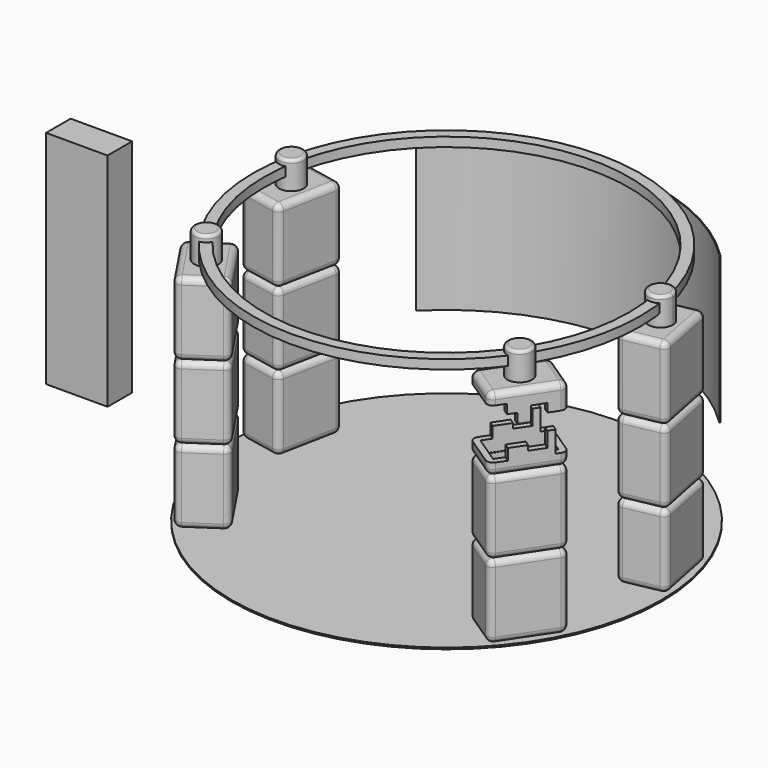
from build123d import *

# Parameters (mm, degrees)
F0_R          = 1778
F1_DEPTH      = 12.7
F4_W          = 508
F4_H          = 254
F5_DEPTH      = 1828.8
F6_DEPTH      = 1828.8
F7_W          = 1642.7085697651
F7_H          = 2.54
F7_W_2        = 2040.2914302349
F8_DEPTH      = 1447.8
F8_DEPTH_BACK = 1905
F9_R          = 50.8
F9_2_R        = 50.8
F9_3_R        = 50.8
F9_4_R        = 50.8
F10_R         = 50.8
F10_2_R       = 50.8
F10_3_R       = 50.8
F10_4_R       = 50.8
F13_DEPTH     = 228.6
F15_START     = 101.6
F14_R         = 1600.2
F14_R_2       = 1511.3
F15_DEPTH     = 76.2
F16_R         = 25.4
F16_2_R       = 25.4
F16_3_R       = 25.4
F16_4_R       = 25.4
F18_DEPTH     = 459.74
F20_START     = -50.8
F20_DEPTH     = 2217.42
F22_DEPTH     = 1219.2


with BuildPart() as f1:
    # F0 (on Top) → F1 (new body)
    with BuildSketch(Plane.XY):
        Circle(F0_R)
    extrude(amount=-F1_DEPTH)


with BuildPart() as f5:
    # F4 (on Top) → F5 (new body)
    with BuildSketch(Plane.XY):
        with Locations((-2954.8909664154, 0)):
            Rectangle(F4_W, F4_H)
    extrude(amount=F5_DEPTH)


with BuildPart() as f6:
    # F3 (on face) → F6 (new body)
    with BuildSketch(Plane.XY):
        Polygon((-1763.4990509434, 72.9011938656), (-1397, 0), (-1290.6597069183, 534.608755014), (-1657.1587578617, 607.5099488796), align=None)
    extrude(amount=F6_DEPTH)


with BuildPart() as f6b:
    # F3 (on face) → F6, piece 2 (new body)
    with BuildSketch(Plane.XY):
        Polygon((1290.6597069183, 534.608755014), (1397, 0), (1763.4990509434, 72.9011938655), (1657.1587578617, 607.5099488796), align=None)
    extrude(amount=F6_DEPTH)


with BuildPart() as f6c:
    # F3 (on face) → F6, piece 3 (new body)
    with BuildSketch(Plane.XY):
        Polygon((-1053.863047553, -889), (-1290.6597069183, -534.608755014), (-1601.3625996777, -742.2137906956), (-1503.2831902794, -889), align=None)
        Polygon((-1298.531066077, -1195.4332089992), (-987.8281733176, -987.8281733176), (-1053.863047553, -889), (-1503.2831902794, -889), align=None)
    extrude(amount=F6_DEPTH)


with BuildPart() as f6d:
    # F3 (on face) → F6, piece 4 (new body)
    with BuildSketch(Plane.XY):
        Polygon((1601.3625996777, -742.2137906956), (1290.6597069183, -534.608755014), (1053.863047553, -889), (1503.2831902794, -889), align=None)
        Polygon((1053.863047553, -889), (987.8281733176, -987.8281733176), (1298.531066077, -1195.4332089992), (1503.2831902794, -889), align=None)
    extrude(amount=F6_DEPTH)


with BuildPart() as f8_tool:
    # F7 (on Front) → F8 (new body, two sides)
    with BuildSketch(Plane.XZ) as f8_sk:
        with Locations((-1028.3880084753, 610.87)):
            Rectangle(F7_W, F7_H)
        with Locations((-1028.3880084753, 1220.47)):
            Rectangle(F7_W, F7_H)
        with Locations((813.1119915247, 1220.47)):
            Rectangle(F7_W_2, F7_H)
        with Locations((813.1119915247, 610.87)):
            Rectangle(F7_W_2, F7_H)
    extrude(amount=-F8_DEPTH)
    extrude(f8_sk.sketch, amount=F8_DEPTH_BACK)


with BuildPart() as f6_1:
    add(f6.part)

    # F8: cut by f8_tool
    add(f8_tool.part, mode=Mode.SUBTRACT)

    # F9#3
    f9_3_edges = [f6_1.edges().sort_by_distance(p)[0] for p in [
        (-1473.909232, 571.059352, 1828.8),
        (-1710.328904, 340.205571, 1828.8),
        (-1580.249525, 36.450597, 1828.8),
        (-1343.829853, 267.304378, 1828.8),
        (-1473.909232, 571.059352, 1221.74),
        (-1657.158758, 607.509949, 1525.27),
        (-1290.659707, 534.608755, 1525.27),
        (-1473.909232, 571.059352, 612.14),
        (-1657.158758, 607.509949, 915.67),
        (-1473.909232, 571.059352, 1219.2),
        (-1290.659707, 534.608755, 915.67),
        (-1710.328904, 340.205571, 612.14),
        (-1763.499051, 72.901194, 915.67),
        (-1710.328904, 340.205571, 1219.2),
        (-1710.328904, 340.205571, 1221.74),
        (-1763.499051, 72.901194, 1525.27),
        (-1580.249525, 36.450597, 1221.74),
        (-1397, 0, 1525.27),
        (-1580.249525, 36.450597, 612.14),
        (-1397, 0, 915.67),
        (-1580.249525, 36.450597, 1219.2),
        (-1343.829853, 267.304378, 612.14),
        (-1343.829853, 267.304378, 1219.2),
        (-1343.829853, 267.304378, 1221.74),
    ]]
    fillet(f9_3_edges, radius=F9_3_R)

    # F10
    f10_edges = [f6_1.edges().sort_by_distance(p)[0] for p in [
        (-1710.328904, 340.205571, 0),
        (-1763.499051, 72.901194, 304.8),
        (-1710.328904, 340.205571, 609.6),
        (-1657.158758, 607.509949, 304.8),
        (-1473.909232, 571.059352, 0),
        (-1473.909232, 571.059352, 609.6),
        (-1290.659707, 534.608755, 304.8),
        (-1580.249525, 36.450597, 0),
        (-1397, 0, 304.8),
        (-1580.249525, 36.450597, 609.6),
        (-1343.829853, 267.304378, 0),
        (-1343.829853, 267.304378, 609.6),
    ]]
    fillet(f10_edges, radius=F10_R)


with BuildPart() as f6b_1:
    add(f6b.part)

    # F8: cut by f8_tool
    add(f8_tool.part, mode=Mode.SUBTRACT)

    # F9
    f9_edges = [f6b_1.edges().sort_by_distance(p)[0] for p in [
        (1710.328904, 340.205571, 1828.8),
        (1473.909232, 571.059352, 1828.8),
        (1343.829853, 267.304378, 1828.8),
        (1580.249525, 36.450597, 1828.8),
        (1473.909232, 571.059352, 1221.74),
        (1290.659707, 534.608755, 1525.27),
        (1657.158758, 607.509949, 1525.27),
        (1343.829853, 267.304378, 1221.74),
        (1397, 0, 1525.27),
        (1580.249525, 36.450597, 1221.74),
        (1763.499051, 72.901194, 1525.27),
        (1710.328904, 340.205571, 1221.74),
        (1710.328904, 340.205571, 612.14),
        (1657.158758, 607.509949, 915.67),
        (1710.328904, 340.205571, 1219.2),
        (1763.499051, 72.901194, 915.67),
        (1343.829853, 267.304378, 612.14),
        (1397, 0, 915.67),
        (1343.829853, 267.304378, 1219.2),
        (1290.659707, 534.608755, 915.67),
        (1580.249525, 36.450597, 612.14),
        (1580.249525, 36.450597, 1219.2),
        (1473.909232, 571.059352, 612.14),
        (1473.909232, 571.059352, 1219.2),
    ]]
    fillet(f9_edges, radius=F9_R)

    # F10#4
    f10_4_edges = [f6b_1.edges().sort_by_distance(p)[0] for p in [
        (1343.829853, 267.304378, 0),
        (1397, 0, 304.8),
        (1343.829853, 267.304378, 609.6),
        (1290.659707, 534.608755, 304.8),
        (1473.909232, 571.059352, 0),
        (1473.909232, 571.059352, 609.6),
        (1657.158758, 607.509949, 304.8),
        (1580.249525, 36.450597, 0),
        (1763.499051, 72.901194, 304.8),
        (1580.249525, 36.450597, 609.6),
        (1710.328904, 340.205571, 0),
        (1710.328904, 340.205571, 609.6),
    ]]
    fillet(f10_4_edges, radius=F10_4_R)


with BuildPart() as f6c_1:
    add(f6c.part)

    # F8: cut by f8_tool
    add(f8_tool.part, mode=Mode.SUBTRACT)

    # F9#4
    f9_4_edges = [f6c_1.edges().sort_by_distance(p)[0] for p in [
        (-1446.011153, -638.411273, 612.14),
        (-1601.3626, -742.213791, 915.67),
        (-1446.011153, -638.411273, 1219.2),
        (-1290.659707, -534.608755, 915.67),
        (-1449.946833, -968.8235, 1221.74),
        (-1298.531066, -1195.433209, 1525.27),
        (-1449.946833, -968.8235, 1828.8),
        (-1601.3626, -742.213791, 1525.27),
        (-1449.946833, -968.8235, 612.14),
        (-1298.531066, -1195.433209, 915.67),
        (-1449.946833, -968.8235, 1219.2),
        (-1446.011153, -638.411273, 1828.8),
        (-1143.17962, -1091.630691, 1828.8),
        (-1139.24394, -761.218464, 1828.8),
        (-1446.011153, -638.411273, 1221.74),
        (-1290.659707, -534.608755, 1525.27),
        (-1143.17962, -1091.630691, 612.14),
        (-987.828173, -987.828173, 915.67),
        (-1143.17962, -1091.630691, 1219.2),
        (-1143.17962, -1091.630691, 1221.74),
        (-987.828173, -987.828173, 1525.27),
        (-1139.24394, -761.218464, 612.14),
        (-1139.24394, -761.218464, 1219.2),
        (-1139.24394, -761.218464, 1221.74),
    ]]
    fillet(f9_4_edges, radius=F9_4_R)

    # F10#2
    f10_2_edges = [f6c_1.edges().sort_by_distance(p)[0] for p in [
        (-1143.17962, -1091.630691, 0),
        (-987.828173, -987.828173, 304.8),
        (-1143.17962, -1091.630691, 609.6),
        (-1298.531066, -1195.433209, 304.8),
        (-1139.24394, -761.218464, 0),
        (-1290.659707, -534.608755, 304.8),
        (-1139.24394, -761.218464, 609.6),
        (-1449.946833, -968.8235, 0),
        (-1449.946833, -968.8235, 609.6),
        (-1601.3626, -742.213791, 304.8),
        (-1446.011153, -638.411273, 0),
        (-1446.011153, -638.411273, 609.6),
    ]]
    fillet(f10_2_edges, radius=F10_2_R)


with BuildPart() as f6d_1:
    add(f6d.part)

    # F8: cut by f8_tool
    add(f8_tool.part, mode=Mode.SUBTRACT)

    # F9#2
    f9_2_edges = [f6d_1.edges().sort_by_distance(p)[0] for p in [
        (1449.946833, -968.8235, 612.14),
        (1601.3626, -742.213791, 915.67),
        (1449.946833, -968.8235, 1219.2),
        (1298.531066, -1195.433209, 915.67),
        (1449.946833, -968.8235, 1221.74),
        (1601.3626, -742.213791, 1525.27),
        (1449.946833, -968.8235, 1828.8),
        (1298.531066, -1195.433209, 1525.27),
        (1139.24394, -761.218464, 1828.8),
        (1143.17962, -1091.630691, 1828.8),
        (1446.011153, -638.411273, 1828.8),
        (1446.011153, -638.411273, 1221.74),
        (1290.659707, -534.608755, 1525.27),
        (1290.659707, -534.608755, 915.67),
        (1139.24394, -761.218464, 1221.74),
        (987.828173, -987.828173, 1525.27),
        (1139.24394, -761.218464, 612.14),
        (987.828173, -987.828173, 915.67),
        (1139.24394, -761.218464, 1219.2),
        (1143.17962, -1091.630691, 1221.74),
        (1143.17962, -1091.630691, 612.14),
        (1143.17962, -1091.630691, 1219.2),
        (1446.011153, -638.411273, 612.14),
        (1446.011153, -638.411273, 1219.2),
    ]]
    fillet(f9_2_edges, radius=F9_2_R)

    # F10#3
    f10_3_edges = [f6d_1.edges().sort_by_distance(p)[0] for p in [
        (1139.24394, -761.218464, 0),
        (987.828173, -987.828173, 304.8),
        (1139.24394, -761.218464, 609.6),
        (1290.659707, -534.608755, 304.8),
        (1143.17962, -1091.630691, 0),
        (1298.531066, -1195.433209, 304.8),
        (1143.17962, -1091.630691, 609.6),
        (1449.946833, -968.8235, 0),
        (1601.3626, -742.213791, 304.8),
        (1449.946833, -968.8235, 609.6),
        (1446.011153, -638.411273, 0),
        (1446.011153, -638.411273, 609.6),
    ]]
    fillet(f10_3_edges, radius=F10_3_R)

    # F17 (on face) → F18 (cut)
    with BuildSketch(Plane(origin=(1449.9468328774, -968.8234998474, 0), x_dir=(0.555570233, 0.8314696123, 0), z_dir=(0.8314696123, -0.555570233, 0))):
        Polygon((-142.8503990173, 1736.963391304), (-370.8000481129, 1736.963391304), (-305.6716918945, 1321.7694759369), (-185.1840466261, 1321.7694759369), (-153.3529162407, 1321.7694759369), (-137.7647668123, 1321.7694759369), (-137.7647668123, 1413.7675762177), (0, 1413.7675762177), (0, 1372.7443218231), (130.5598020554, 1372.7443218231), (130.5598020554, 1497.6162910461), (186.0482692719, 1497.6162910461), (186.0482692719, 1439.0007257462), (186.0482692719, 1321.7694759369), (322.8180110455, 1321.7694759369), (322.8180110455, 1629.5014619827), (130.6892335415, 1629.5014619827), (130.6892335415, 1699.5146274567), (19.9705809355, 1699.5146274567), (19.9705809355, 1579.0269374847), (-72.8373676538, 1579.0269374847), (-72.8373676538, 1660.4374647141), (-142.8503990173, 1660.4374647141), align=None)
    extrude(amount=-F18_DEPTH, mode=Mode.SUBTRACT)


with BuildPart() as f13:
    # F12 (on offset) → F13 (new body)
    with BuildSketch(Plane.XY.offset(1828.8)):
        with BuildLine():
            ThreePointArc((-1424.2361308747, 303.6151580822), (-1446.2541434046, 366.7758046139), (-1502.7650141484, 402.5610199107))
            ThreePointArc((-1502.7650141484, 402.5610199107), (-1525.8361308747, 303.6151580821), (-1542.3997249104, 203.3744111146))
            ThreePointArc((-1542.3997249104, 203.3744111146), (-1460.1105694622, 226.1379964343), (-1424.2361308747, 303.6151580822))
        make_face()
        with BuildLine():
            ThreePointArc((-1542.3997249104, 203.3744111146), (-1525.8361308747, 303.6151580821), (-1502.7650141484, 402.5610199107))
            ThreePointArc((-1502.7650141484, 402.5610199107), (-1625.4825720747, 323.4430867732), (-1542.3997249104, 203.3744111146))
        make_face()
    extrude(amount=F13_DEPTH)

    # F16#4
    f16_4_edges = [f13.edges().sort_by_distance(p)[0] for p in [
        (-1627.436131, 303.615158, 2057.4),
    ]]
    fillet(f16_4_edges, radius=F16_4_R)


with BuildPart() as f13b:
    # F12 (on offset) → F13, piece 2 (new body)
    with BuildSketch(Plane.XY.offset(1828.8)):
        with BuildLine():
            ThreePointArc((-1347.1692789174, -778.1343048864), (-1377.980584439, -920.8574978839), (-1234.3274156215, -946.9920240135))
            ThreePointArc((-1234.3274156215, -946.9920240135), (-1293.5066788796, -864.4064635309), (-1347.1692789174, -778.1343048864))
        make_face()
        with BuildLine():
            ThreePointArc((-1347.1692789174, -778.1343048864), (-1293.5066788796, -864.4064635309), (-1234.3274156215, -946.9920240135))
            ThreePointArc((-1234.3274156215, -946.9920240135), (-1203.1319779201, -910.8281548668), (-1191.9066788796, -864.4064635309))
            ThreePointArc((-1191.9066788796, -864.4064635309), (-1244.158731424, -775.5957655158), (-1347.1692789174, -778.1343048864))
        make_face()
    extrude(amount=F13_DEPTH)

    # F16#3
    f16_3_edges = [f13b.edges().sort_by_distance(p)[0] for p in [
        (-1352.685942, -781.820903, 2057.4),
    ]]
    fillet(f16_3_edges, radius=F16_3_R)


with BuildPart() as f13c:
    # F12 (on offset) → F13, piece 3 (new body)
    with BuildSketch(Plane.XY.offset(1828.8)):
        with BuildLine():
            ThreePointArc((1235.822922691, -945.0395580352), (1294.8715568746, -862.3605473914), (1348.397706784, -776.0036641922))
            ThreePointArc((1348.397706784, -776.0036641922), (1210.3085164257, -806.0431238882), (1235.822922691, -945.0395580352))
        make_face()
        with BuildLine():
            ThreePointArc((1396.4715568746, -862.3605473913), (1383.6432213594, -812.9424172709), (1348.397706784, -776.0036641922))
            ThreePointArc((1348.397706784, -776.0036641922), (1294.8715568746, -862.3605473914), (1235.822922691, -945.0395580352))
            ThreePointArc((1235.822922691, -945.0395580352), (1341.3646680146, -952.6985273141), (1396.4715568746, -862.3605473913))
        make_face()
    extrude(amount=F13_DEPTH)

    # F16
    f16_edges = [f13c.edges().sort_by_distance(p)[0] for p in [
        (1353.920191, -779.681537, 2057.4),
    ]]
    fillet(f16_edges, radius=F16_R)


with BuildPart() as f13d:
    # F12 (on offset) → F13, piece 4 (new body)
    with BuildSketch(Plane.XY.offset(1828.8)):
        with BuildLine():
            ThreePointArc((1502.7795465505, 402.5067663649), (1426.1999341189, 283.7357404685), (1542.4070661906, 203.3187267941))
            ThreePointArc((1542.4070661906, 203.3187267941), (1525.8470910879, 303.5600716803), (1502.7795465505, 402.5067663649))
        make_face()
        with BuildLine():
            ThreePointArc((1502.7795465505, 402.5067663649), (1525.8470910879, 303.5600716803), (1542.4070661906, 203.3187267941))
            ThreePointArc((1542.4070661906, 203.3187267941), (1603.323066301, 237.8331117264), (1627.4470910879, 303.5600716803))
            ThreePointArc((1627.4470910879, 303.5600716803), (1589.009174156, 383.140919015), (1502.7795465505, 402.5067663649))
        make_face()
    extrude(amount=F13_DEPTH)

    # F16#2
    f16_2_edges = [f13d.edges().sort_by_distance(p)[0] for p in [
        (1509.287116, 403.801417, 2057.4),
    ]]
    fillet(f16_2_edges, radius=F16_2_R)


with BuildPart() as f15:
    # F14 (on offset) → F15 (new body)
    with BuildSketch(Plane.XY.offset(1828.8).offset(F15_START)):
        Circle(F14_R)
        Circle(F14_R_2, mode=Mode.SUBTRACT)
    extrude(amount=F15_DEPTH)


with BuildPart() as f20_tool:
    # F19 (on offset) → F20 (new body)
    with BuildSketch(Plane.XY.offset(1828.8).offset(F20_START)):
        Polygon((1529.6578809783, -756.2637461801), (1303.2232522964, -605.5971980095), (1057.8068494797, -972.9500412941), (1283.9610935738, -1124.036284621), align=None)
    extrude(amount=-F20_DEPTH)


with BuildPart() as f1_1:
    add(f1.part)

    # F20: cut by f20_tool
    add(f20_tool.part, mode=Mode.SUBTRACT)


with BuildPart() as f6d_2:
    add(f6d_1.part)

    # F20: cut by f20_tool
    add(f20_tool.part, mode=Mode.SUBTRACT)


with BuildPart() as f22:
    # F21 (on offset) → F22 (new body)
    with BuildSketch(Plane.XY.offset(1828.8)):
        with BuildLine():
            Line((1251.6724121266, 1253.8181268514), (1256.1586931737, 1258.3120986322))
            ThreePointArc((1256.1586931737, 1258.3120986322), (-1.5226876024, 1777.9993479815), (-1258.3120986322, 1256.1586931737))
            Line((-1258.3120986322, 1256.1586931737), (-1253.8181268514, 1251.6724121266))
            ThreePointArc((-1253.8181268514, 1251.6724121266), (-1.5172494324, 1771.6493503101), (1251.6724121266, 1253.8181268514))
        make_face()
    extrude(amount=-F22_DEPTH)


solid = Compound([f5.part, f6_1.part, f6b_1.part, f6c_1.part, f13.part, f13b.part, f13c.part, f13d.part, f15.part, f1_1.part, f6d_2.part, f22.part])
